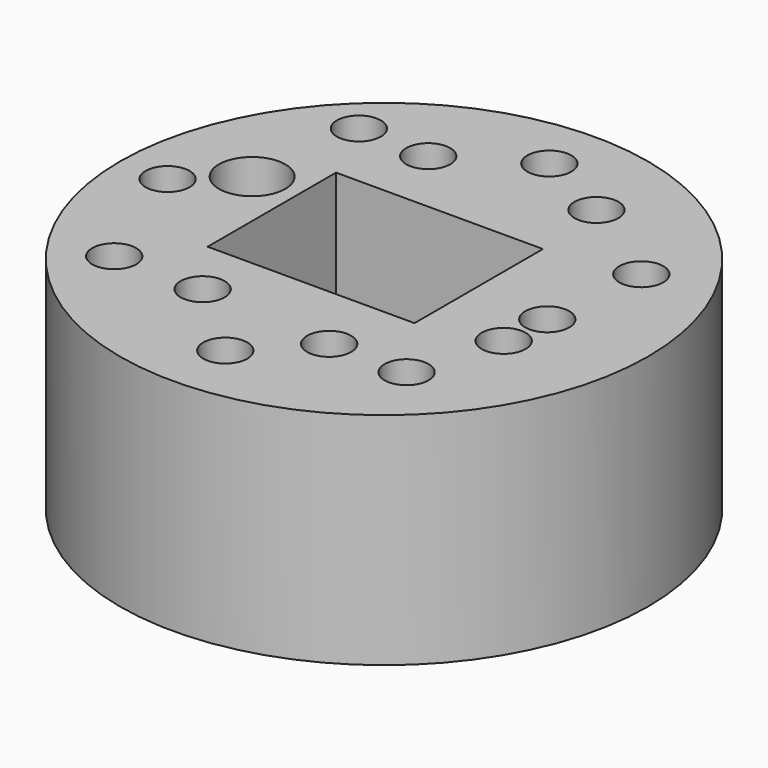
from build123d import *

# Parameters (mm, degrees)
F0_R      = 30
F1_DEPTH  = 25
F2_W      = 23.500042
F2_H      = 18.234876
F3_DEPTH  = 15
F4_DEPTH  = 25
F5_R      = 2.5
F5_R_2    = 3.773073
F6_DEPTH  = 25
F7_R      = 2.5
F8_DEPTH  = 25
F9_R      = 2.5
F10_DEPTH = 25
F11_R     = 2.5
F12_DEPTH = 25


with BuildPart() as f1:
    # F0 (on Top) → F1 (new body)
    with BuildSketch(Plane.XY):
        Circle(F0_R)
    extrude(amount=F1_DEPTH)

    # F2 (on face) → F3 (join)
    with BuildSketch(Plane.XY.offset(25)):
        with Locations((-1.940479, 1.186641)):
            Rectangle(F2_W, F2_H)
    extrude(amount=-F3_DEPTH)

    # F2 (on face) → F4 (cut)
    with BuildSketch(Plane.XY.offset(25)):
        with Locations((-1.940479, 1.186641)):
            Rectangle(F2_W, F2_H)
    extrude(amount=-F4_DEPTH, mode=Mode.SUBTRACT)

    # F5 (on face) → F6 (cut)
    with BuildSketch(Plane.XY.offset(25)):
        with Locations((0, -22.529673)):
            Circle(F5_R)
        with Locations((18.548569, 0)):
            Circle(F5_R)
        with Locations((8.835036, 19.124642)):
            Circle(F5_R)
        with Locations((-19.018844, -14.531934)):
            Circle(F5_R)
        with Locations((-19.018844, 5.049379)):
            Circle(F5_R_2)
    extrude(amount=-F6_DEPTH, mode=Mode.SUBTRACT)

    # F7 (on face) → F8 (cut)
    with BuildSketch(Plane.XY.offset(25)):
        with Locations((-9.274186, 17.875323)):
            Circle(F7_R)
        with Locations((0, 23.479404)):
            Circle(F7_R)
        with Locations((15.148347, -15.728295)):
            Circle(F7_R)
    extrude(amount=-F8_DEPTH, mode=Mode.SUBTRACT)

    # F9 (on face) → F10 (cut)
    with BuildSketch(Plane.XY.offset(25)):
        with Locations((-8.938282, -14.577557)):
            Circle(F9_R)
        with Locations((19.652629, 11.967526)):
            Circle(F9_R)
        with Locations((6.387524, -15.767302)):
            Circle(F9_R)
        with Locations((-24.581272, 0)):
            Circle(F9_R)
        with Locations((-17.395867, 18.182352)):
            Circle(F9_R)
    extrude(amount=-F10_DEPTH, mode=Mode.SUBTRACT)

    # F11 (on face) → F12 (cut)
    with BuildSketch(Plane.XY.offset(25)):
        with Locations((18.113662, -5.651171)):
            Circle(F11_R)
    extrude(amount=-F12_DEPTH, mode=Mode.SUBTRACT)


solid = f1.part
